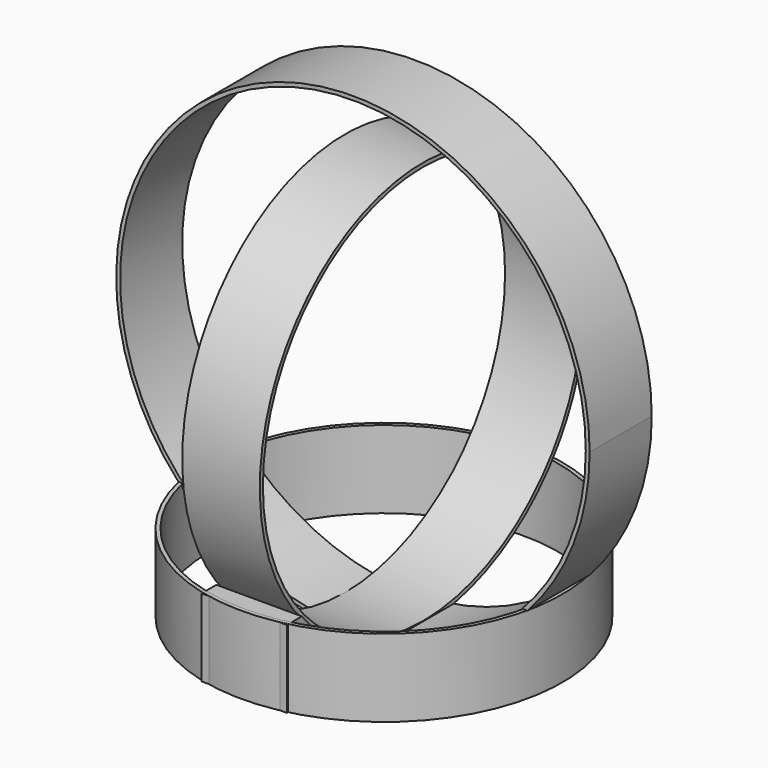
from build123d import *

# Parameters (mm, degrees)
F0_R     = 600
F1_DEPTH = 100
F0_W     = 10
F0_H     = 200
F4_R     = 515
F5_DEPTH = 100
F7_DEPTH = 110


with BuildPart() as f1:
    # F0 (on Front) → F1 (new body, symmetric)
    with BuildSketch(Plane.XZ):
        with BuildLine():
            ThreePointArc((610, 611.825206), (-220.90722, 1180.419965), (-450, 200))
            ThreePointArc((-450, 200), (0, 1.825206), (450, 200))
            ThreePointArc((450, 200), (568.594759, 390.917985), (610, 611.825206))
        make_face()
        with Locations((0, 611.825206)):
            Circle(F0_R, mode=Mode.SUBTRACT)
    extrude(amount=F1_DEPTH, both=True)


with BuildPart() as f3:
    # F0 (on Front) → F3 (revolve)
    with BuildSketch(Plane.XZ):
        with Locations((-455, 100)):
            Rectangle(F0_W, F0_H)
    revolve(axis=Axis((0, 0, 82.918629), (0, 0, -1)))


with BuildPart() as f5:
    # F4 (on Right) → F5 (new body, symmetric)
    with BuildSketch(Plane.YZ):
        with BuildLine():
            ThreePointArc((2e-06, 11.825206), (371.231061, 165.594146), (525, 536.825206))
            ThreePointArc((525, 536.825206), (-371.231061, 908.056265), (2e-06, 11.825206))
        make_face()
        with Locations((0, 536.825206)):
            Circle(F4_R, mode=Mode.SUBTRACT)
    extrude(amount=F5_DEPTH, both=True)


with BuildPart() as f7:
    # F6 (on Right) → F7 (new body, symmetric)
    with BuildSketch(Plane.YZ):
        with BuildLine():
            ThreePointArc((-276.510298, 90.543843), (-343.973234, 139.759997), (-402.304157, 199.517682))
            Line((-402.304157, 199.517682), (-450.37058, 199.517682))
            Line((-450.37058, 199.517682), (-450.37058, 0))
            Line((-450.37058, 0), (-276.510298, 0))
            Line((-276.510298, 0), (-276.510298, 90.543843))
        make_face()
    extrude(amount=F7_DEPTH, both=True)


solid = Compound([f1.part, f3.part, f5.part, f7.part])
